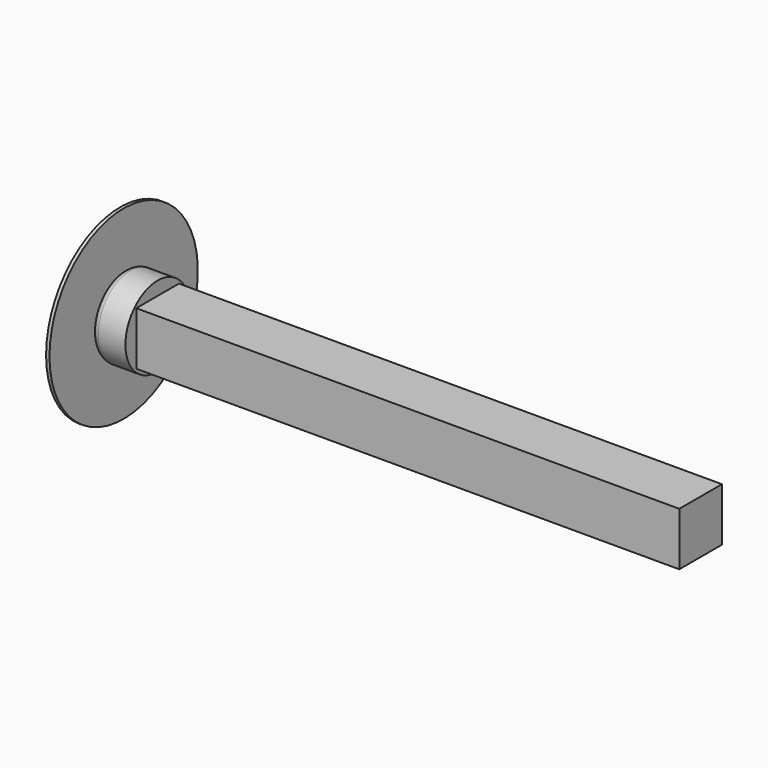
from build123d import *

# Parameters (mm, degrees)
F0_W     = 7.85
F0_H     = 7.85
F1_DEPTH = 85
F2_R     = 5.925
F3_DEPTH = 5
F4_R     = 1
F5_R     = 13.6615771023
F5_R_2   = 4.925
F6_DEPTH = 0.5


with BuildPart() as f1:
    # F0 (on Right) → F1 (new body)
    with BuildSketch(Plane.YZ):
        with Locations((16.0746219532, 0)):
            Rectangle(F0_W, F0_H)
    extrude(amount=F1_DEPTH)

    # F2 (on face) → F3 (join)
    with BuildSketch(Plane(origin=(0, 0, 0), x_dir=(0, -1, 0), z_dir=(-1, 0, 0))):
        with Locations((-16.0746219532, 0)):
            Circle(F2_R)
        Polygon((-19.9996219532, 3.925), (-16.0746219532, 3.925), (-12.1496219532, 3.925), (-12.1496219532, 0), (-12.1496219532, -3.925), (-16.0746219532, -3.925), (-19.9996219532, -3.925), (-19.9996219532, 0), align=None, mode=Mode.SUBTRACT)
    extrude(amount=-F3_DEPTH)

    # F4
    f4_edges = [f1.edges().sort_by_distance(p)[0] for p in [
        (0, 21.999622, 0),
    ]]
    fillet(f4_edges, radius=F4_R)

    # F5 (on face) → F6 (join)
    with BuildSketch(Plane(origin=(0, 0, 0), x_dir=(0, -1, 0), z_dir=(-1, 0, 0))):
        with Locations((-16.0746219532, 0)):
            Circle(F5_R)
        with Locations((-16.0746219532, 0)):
            Circle(F5_R_2, mode=Mode.SUBTRACT)
        with Locations((-16.0746219532, 0)):
            Circle(F5_R_2)
    extrude(amount=F6_DEPTH)


solid = f1.part
